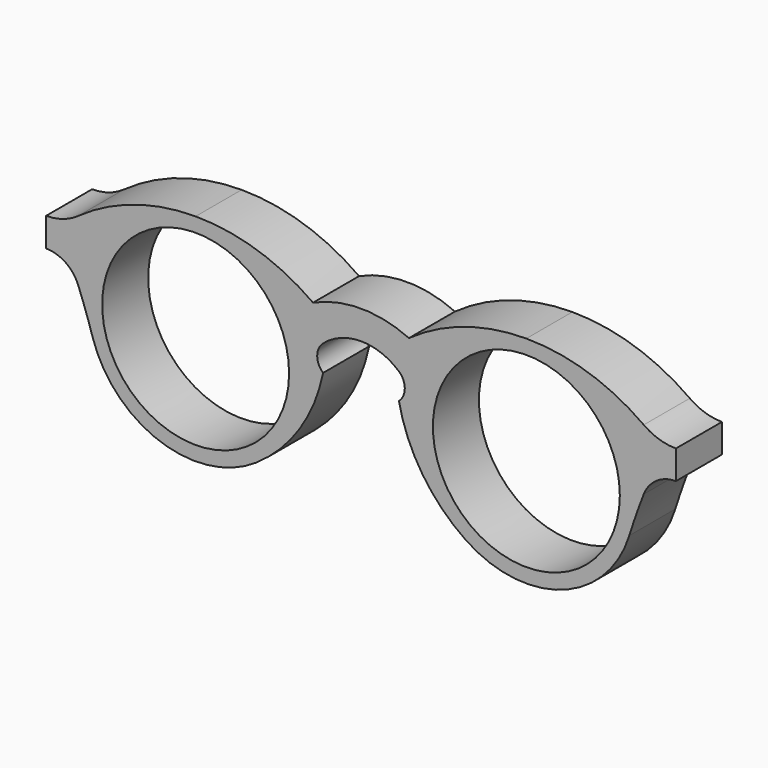
from build123d import *

# Parameters (mm, degrees)
F0_R     = 20.6375
F1_DEPTH = 12.7


with BuildPart() as f1:
    # F0 (on Front) → F1 (new body)
    with BuildSketch(Plane.XZ):
        with BuildLine():
            ThreePointArc((0, 23.8125), (16.83798, 16.83798), (23.8125, 0))
            ThreePointArc((23.8125, 0), (21.037854, -11.155441), (13.360522, -19.711205))
            ThreePointArc((13.360522, -19.711205), (22.941831, -10.040538), (28.143111, 2.54))
            ThreePointArc((28.143111, 2.54), (26.841467, 5.411069), (28.143111, 8.282137))
            ThreePointArc((28.143111, 8.282137), (36.5125, 11.43), (44.881889, 8.282137))
            ThreePointArc((44.881889, 8.282137), (46.183533, 5.411069), (44.881889, 2.54))
            ThreePointArc((44.881889, 2.54), (50.083169, -10.040538), (59.664478, -19.711205))
            ThreePointArc((59.664478, -19.711205), (50.260903, 6.987921), (73.025, 23.8125))
            ThreePointArc((73.025, 23.8125), (59.407251, 21.675139), (47.099111, 15.468605))
            ThreePointArc((47.099111, 15.468605), (36.5125, 17.78), (25.925889, 15.468605))
            ThreePointArc((25.925889, 15.468605), (13.617749, 21.675139), (0, 23.8125))
        make_face()
        with BuildLine():
            ThreePointArc((13.360522, -19.711205), (21.037854, -11.155441), (23.8125, 0))
            ThreePointArc((23.8125, 0), (16.83798, 16.83798), (0, 23.8125))
            ThreePointArc((0, 23.8125), (-19.180682, 14.111577), (-22.73341, -7.087116))
            ThreePointArc((-22.73341, -7.087116), (-7.861594, -22.477333), (13.360522, -19.711205))
        make_face()
        Circle(F0_R, mode=Mode.SUBTRACT)
        with BuildLine():
            ThreePointArc((-22.73341, -7.087116), (-19.180682, 14.111577), (0, 23.8125))
            ThreePointArc((0, 23.8125), (-13.617749, 21.675139), (-25.925889, 15.468605))
            ThreePointArc((-25.925889, 15.468605), (-29.29377, 13.770308), (-33.02, 13.185461))
            Line((-33.02, 13.185461), (-33.02, 6.835461))
            ThreePointArc((-33.02, 6.835461), (-28.726536, 5.510743), (-25.925889, 1.997185))
            ThreePointArc((-25.925889, 1.997185), (-24.248459, -2.516433), (-22.73341, -7.087116))
        make_face()
        with BuildLine():
            ThreePointArc((96.8375, 0), (89.86298, 16.83798), (73.025, 23.8125))
            ThreePointArc((73.025, 23.8125), (50.260903, 6.987921), (59.664478, -19.711205))
            ThreePointArc((59.664478, -19.711205), (80.886594, -22.477333), (95.75841, -7.087116))
            ThreePointArc((95.75841, -7.087116), (96.566182, -3.584399), (96.8375, 0))
        make_face()
        with Locations((73.025, 0)):
            Circle(F0_R, mode=Mode.SUBTRACT)
        with BuildLine():
            ThreePointArc((98.950889, 15.468605), (86.642749, 21.675139), (73.025, 23.8125))
            ThreePointArc((73.025, 23.8125), (89.86298, 16.83798), (96.8375, 0))
            ThreePointArc((96.8375, 0), (96.566182, -3.584399), (95.75841, -7.087116))
            ThreePointArc((95.75841, -7.087116), (97.273459, -2.516433), (98.950889, 1.997185))
            ThreePointArc((98.950889, 1.997185), (101.751536, 5.510743), (106.045, 6.835461))
            Line((106.045, 6.835461), (106.045, 13.185461))
            ThreePointArc((106.045, 13.185461), (102.31877, 13.770308), (98.950889, 15.468605))
        make_face()
    extrude(amount=F1_DEPTH)


solid = f1.part
